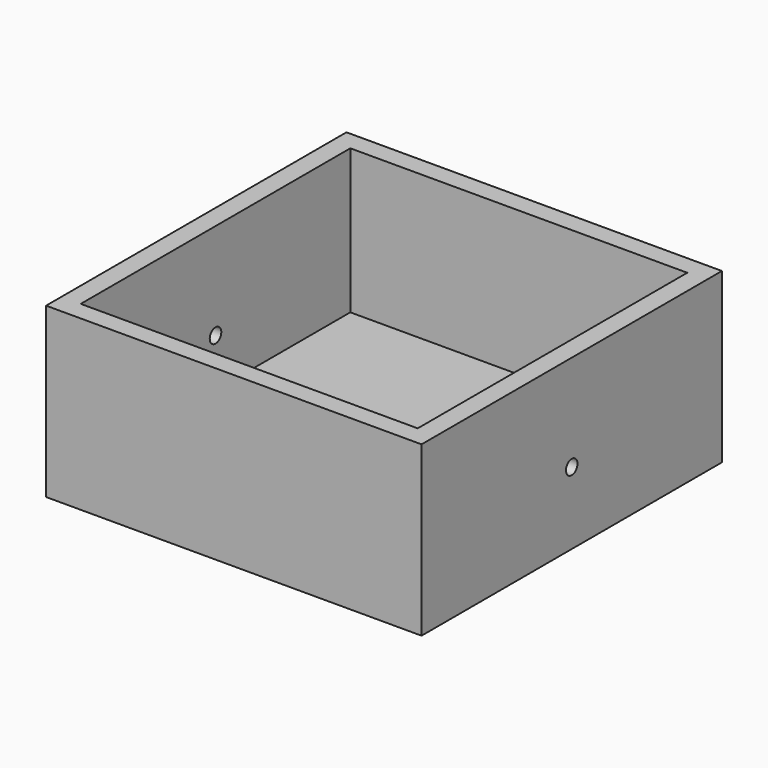
from build123d import *

# Parameters (mm, degrees)
F0_W      = 78
F0_H      = 78
F0_W_2    = 70
F0_H_2    = 70
F1_DEPTH  = 35
F2_W      = 70
F2_H      = 70
F3_DEPTH  = 5
F4_W      = 12
F4_H      = 7
F5_DEPTH  = 26.2
F7_R      = 0.85
F8_DEPTH  = 10
F10_R     = 1.5
F11_DEPTH = 25.4
F13_R     = 1.5
F14_DEPTH = 25.4


with BuildPart() as f1:
    # F0 (on Top) → F1 (new body)
    with BuildSketch(Plane.XY):
        with Locations((35, 35)):
            Rectangle(F0_W, F0_H)
        with Locations((35, 35)):
            Rectangle(F0_W_2, F0_H_2, mode=Mode.SUBTRACT)
    extrude(amount=F1_DEPTH)

    # F2 (on Top) → F3 (join)
    with BuildSketch(Plane.XY):
        with Locations((35, 35)):
            Rectangle(F2_W, F2_H)
    extrude(amount=F3_DEPTH)

    # F4 (on Top) → F5 (join)
    with BuildSketch(Plane.XY):
        with Locations((35, 3.5)):
            Rectangle(F4_W, F4_H)
    extrude(amount=F5_DEPTH)

    # F7 (on offset) → F8 (cut)
    with BuildSketch(Plane.XY.offset(26.2)):
        with Locations((38, 3.5)):
            Circle(F7_R)
        with Locations((32, 3.5)):
            Circle(F7_R)
    extrude(amount=-F8_DEPTH, mode=Mode.SUBTRACT)

    # F10 (on offset) → F11 (cut)
    with BuildSketch(Plane.YZ.offset(74)):
        with Locations((35, 15)):
            Circle(F10_R)
    extrude(amount=-F11_DEPTH, mode=Mode.SUBTRACT)

    # F13 (on offset) → F14 (cut)
    with BuildSketch(Plane(origin=(-4, 0, 0), x_dir=(0, -1, 0), z_dir=(-1, 0, 0))):
        with Locations((-35, 15)):
            Circle(F13_R)
    extrude(amount=-F14_DEPTH, mode=Mode.SUBTRACT)


solid = f1.part
